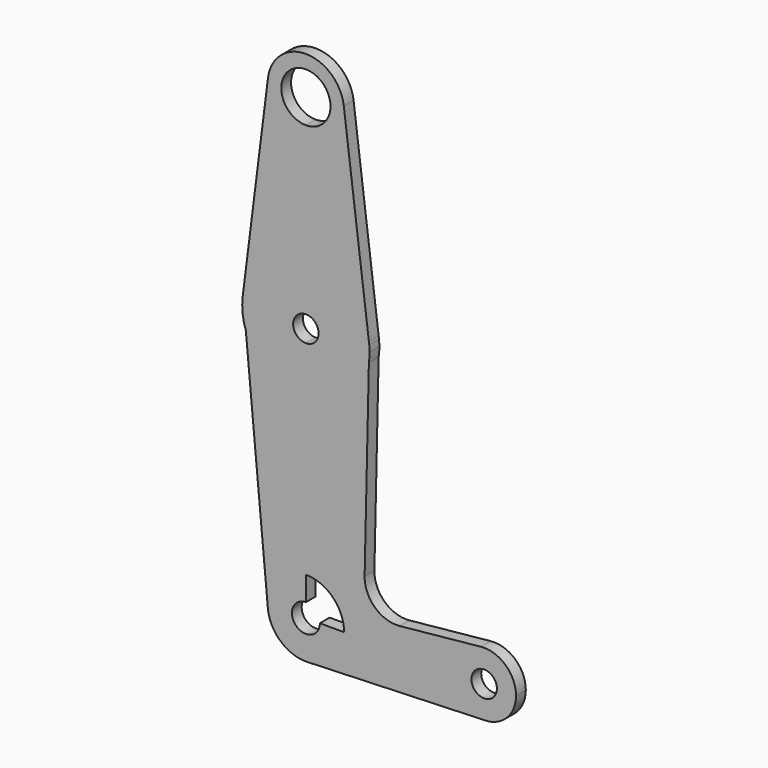
from build123d import *

# Parameters (mm, degrees)
F1_DEPTH = 3.048


with BuildPart() as f1:
    # F0 (on Front) → F1 (new body)
    with BuildSketch(Plane.XZ):
        with BuildLine():
            ThreePointArc((-72.7464486283, 64.307633643), (-70.358196517, 56.9298707036), (-63.2750912987, 53.7731707489))
            ThreePointArc((-63.2750912987, 53.7731707489), (-56.5398992079, 56.5629786581), (-53.7500912987, 63.2981707489))
            ThreePointArc((-53.7500912987, 63.2981707489), (-53.7687586815, 63.8942119987), (-53.8246876602, 64.4879169692))
            ThreePointArc((-53.8246876602, 64.4879169692), (-63.3658397627, 72.8227384407), (-72.7464486283, 64.307633643))
        make_face()
        with BuildLine():
            ThreePointArc((-57.1418828371, 63.2981707489), (-58.9382580051, 58.9613374552), (-63.2750912987, 57.1649622873))
            ThreePointArc((-63.2750912987, 57.1649622873), (-67.6119245923, 67.6350040425), (-57.1418828371, 63.2981707489))
        make_face(mode=Mode.SUBTRACT)
        with BuildLine():
            ThreePointArc((-53.7500912987, 63.2981707489), (-56.5398992079, 56.5629786581), (-63.2750912987, 53.7731707489))
            Line((-63.2750912987, 53.7731707489), (-63.2750912987, 28.3731707489))
            ThreePointArc((-63.2750912987, 28.3731707489), (-52.9196393826, 24.5306368557), (-47.5772488795, 14.8632010623))
            Line((-47.5772488795, 14.8632010623), (-53.8246876602, 64.4879169692))
            ThreePointArc((-53.8246876602, 64.4879169692), (-53.7687586815, 63.8942119987), (-53.7500912987, 63.2981707489))
        make_face()
        with BuildLine():
            Line((-63.2750912987, 28.3731707489), (-63.2750912987, 53.7731707489))
            ThreePointArc((-63.2750912987, 53.7731707489), (-70.358196517, 56.9298707036), (-72.7464486283, 64.307633643))
            Line((-72.7464486283, 64.307633643), (-79.0255105661, 14.483093392))
            ThreePointArc((-79.0255105661, 14.483093392), (-73.7752098228, 24.4046032952), (-63.2750912987, 28.3731707489))
        make_face()
        with BuildLine():
            ThreePointArc((-47.5772488795, 14.8632010623), (-52.9196393826, 24.5306368557), (-63.2750912987, 28.3731707489))
            Line((-63.2750912987, 28.3731707489), (-63.2750912987, 15.6731707489))
            ThreePointArc((-63.2750912987, 15.6731707489), (-61.0300272684, 14.7432347791), (-60.1000912987, 12.4981707489))
            ThreePointArc((-60.1000912987, 12.4981707489), (-61.0300272684, 10.2531067186), (-63.2750912987, 9.3231707489))
            Line((-63.2750912987, 9.3231707489), (-63.2750912987, -3.3768292511))
            ThreePointArc((-63.2750912987, -3.3768292511), (-52.8975847049, 0.4847207075), (-47.5686778161, 10.1907478328))
            Line((-47.5686778161, 10.1907478328), (-47.4808884951, 14.0977903283))
            Line((-47.4808884951, 14.0977903283), (-47.5772488795, 14.8632010623))
        make_face()
        with BuildLine():
            Line((-63.2750912987, 15.6731707489), (-63.2750912987, 28.3731707489))
            ThreePointArc((-63.2750912987, 28.3731707489), (-73.7752098228, 24.4046032952), (-79.0255105661, 14.483093392))
            ThreePointArc((-79.0255105661, 14.483093392), (-79.0591430687, 10.8013104948), (-78.2437053313, 7.2108066661))
            ThreePointArc((-78.2437053313, 7.2108066661), (-72.4423897062, -0.4623950145), (-63.2750912987, -3.3768292511))
            Line((-63.2750912987, -3.3768292511), (-63.2750912987, 9.3231707489))
            ThreePointArc((-63.2750912987, 9.3231707489), (-66.4500912987, 12.4981707489), (-63.2750912987, 15.6731707489))
        make_face()
        with BuildLine():
            ThreePointArc((-47.4808884951, 14.0977903283), (-47.5244185678, 14.481081116), (-47.5772488795, 14.8632010623))
            Line((-47.5772488795, 14.8632010623), (-47.4808884951, 14.0977903283))
        make_face()
        with BuildLine():
            ThreePointArc((-47.4000912987, 12.4981707489), (-47.4203034649, 13.2990001605), (-47.4808884951, 14.0977903283))
            Line((-47.4808884951, 14.0977903283), (-47.5686778161, 10.1907478328))
            ThreePointArc((-47.5686778161, 10.1907478328), (-47.4422940247, 11.3413840434), (-47.4000912987, 12.4981707489))
        make_face()
        with BuildLine():
            ThreePointArc((-63.2750912987, -3.3768292511), (-72.4423897062, -0.4623950145), (-78.2437053313, 7.2108066661))
            Line((-78.2437053313, 7.2108066661), (-72.7593322248, -51.8820559581))
            ThreePointArc((-72.7593322248, -51.8820559581), (-70.3146148757, -44.5853868717), (-63.2750912987, -41.4768292511))
            Line((-63.2750912987, -41.4768292511), (-63.2750912987, -3.3768292511))
        make_face()
        with BuildLine():
            ThreePointArc((-47.5686778161, 10.1907478328), (-52.8975847049, 0.4847207075), (-63.2750912987, -3.3768292511))
            Line((-63.2750912987, -3.3768292511), (-63.2750912987, -41.4768292511))
            ThreePointArc((-63.2750912987, -41.4768292511), (-56.5398992079, -44.2666371603), (-53.7500912987, -51.0018292511))
            Line((-53.7500912987, -51.0018292511), (-41.0500912987, -51.0018292511))
            Line((-41.0500912987, -51.0018292511), (-26.7625912987, -51.0018292511))
            ThreePointArc((-26.7625912987, -51.0018292511), (-24.7108836029, -45.6762912312), (-19.6164230588, -43.1038738008))
            Line((-19.6164230588, -43.1038738008), (-39.8892707218, -45.1351017969))
            ThreePointArc((-39.8892707218, -45.1351017969), (-46.0818096714, -43.059431777), (-48.6300624288, -37.0459176166))
            Line((-48.6300624288, -37.0459176166), (-47.5686778161, 10.1907478328))
        make_face()
        with BuildLine():
            ThreePointArc((-63.2750912987, -41.4768292511), (-70.3146148757, -44.5853868717), (-72.7593322248, -51.8820559581))
            ThreePointArc((-72.7593322248, -51.8820559581), (-69.5643740756, -58.1551884028), (-62.9338206476, -60.520713605))
            ThreePointArc((-62.9338206476, -60.520713605), (-56.4203036305, -57.6152633836), (-53.7500912987, -51.0018292511))
            Line((-53.7500912987, -51.0018292511), (-56.6138192411, -51.0018292511))
            Line((-56.6138192411, -51.0018292511), (-59.7925414598, -51.0018292511))
            ThreePointArc((-59.7925414598, -51.0018292511), (-65.7376259056, -53.4643638581), (-63.2750912987, -47.5192794122))
            Line((-63.2750912987, -47.5192794122), (-63.2750912987, -41.4768292511))
        make_face()
        with BuildLine():
            ThreePointArc((-53.7500912987, -51.0018292511), (-56.4203036305, -57.6152633836), (-62.9338206476, -60.520713605))
            Line((-62.9338206476, -60.520713605), (-18.8250912987, -58.9393292511))
            ThreePointArc((-18.8250912987, -58.9393292511), (-24.4377513744, -56.6144893268), (-26.7625912987, -51.0018292511))
            Line((-26.7625912987, -51.0018292511), (-41.0500912987, -51.0018292511))
            Line((-41.0500912987, -51.0018292511), (-53.7500912987, -51.0018292511))
        make_face()
        with BuildLine():
            ThreePointArc((-26.7625912987, -51.0018292511), (-24.4377513744, -56.6144893268), (-18.8250912987, -58.9393292511))
            ThreePointArc((-18.8250912987, -58.9393292511), (-13.212431223, -56.6144893268), (-10.8875912987, -51.0018292511))
            ThreePointArc((-10.8875912987, -51.0018292511), (-13.4995532787, -45.116036947), (-19.6164230588, -43.1038738008))
            ThreePointArc((-19.6164230588, -43.1038738008), (-24.7108836029, -45.6762912312), (-26.7625912987, -51.0018292511))
        make_face()
        with BuildLine():
            ThreePointArc((-15.6500912987, -51.0018292511), (-18.8250912987, -54.1768292511), (-22.0000912987, -51.0018292511))
            ThreePointArc((-22.0000912987, -51.0018292511), (-18.8250912987, -47.8268292511), (-15.6500912987, -51.0018292511))
        make_face(mode=Mode.SUBTRACT)
    extrude(amount=F1_DEPTH)


solid = f1.part
